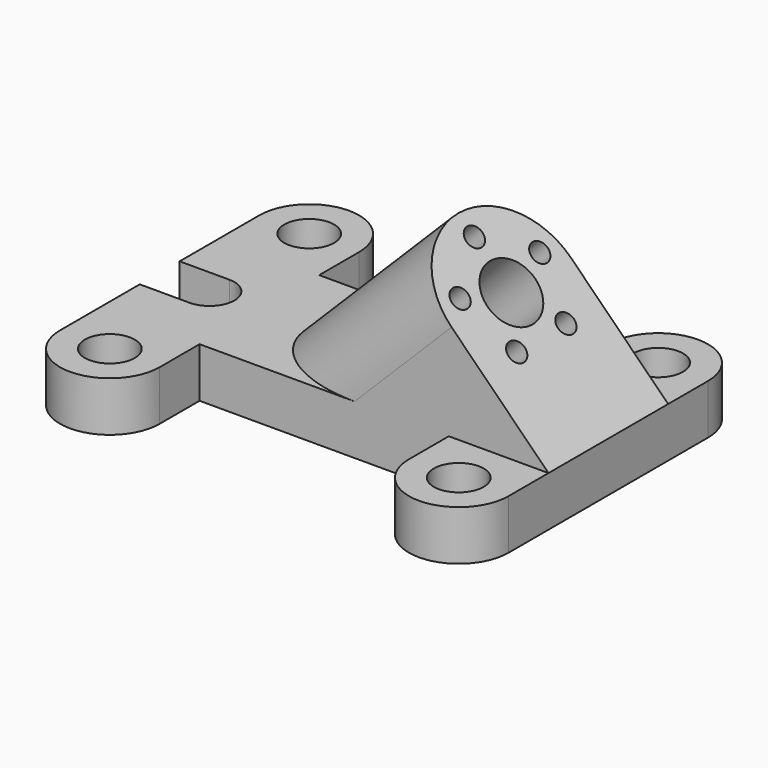
from build123d import *

# Parameters (mm, degrees)
F0_R     = 6.35
F1_DEPTH = 12.7
F3_R     = 2.54
F3_R_2   = 7.62


with BuildPart() as f1:
    # F0 (on Top) → F1 (new body)
    with BuildSketch(Plane.XY):
        with BuildLine():
            ThreePointArc((0, 6.35), (6.35, 0), (0, -6.35))
            Line((0, -6.35), (-12.7, -6.35))
            Line((-12.7, -6.35), (-12.7, -31.75))
            ThreePointArc((-12.7, -31.75), (0, -44.45), (12.7, -31.75))
            Line((12.7, -31.75), (12.7, -19.05))
            Line((12.7, -19.05), (76.2, -19.05))
            Line((76.2, -19.05), (101.6, -19.05))
            Line((101.6, -19.05), (101.6, 19.05))
            Line((101.6, 19.05), (76.2, 19.05))
            Line((76.2, 19.05), (12.7, 19.05))
            Line((12.7, 19.05), (12.7, 31.75))
            ThreePointArc((12.7, 31.75), (0, 44.45), (-12.7, 31.75))
            Line((-12.7, 31.75), (-12.7, 6.35))
            Line((-12.7, 6.35), (0, 6.35))
        make_face()
        with Locations((0, -31.75)):
            Circle(F0_R, mode=Mode.SUBTRACT)
        with Locations((0, 31.75)):
            Circle(F0_R, mode=Mode.SUBTRACT)
        with BuildLine():
            Line((101.6, -19.05), (76.2, -19.05))
            Line((76.2, -19.05), (76.2, -31.75))
            ThreePointArc((76.2, -31.75), (88.9, -44.45), (101.6, -31.75))
            Line((101.6, -31.75), (101.6, -19.05))
        make_face()
        with Locations((88.9, -31.75)):
            Circle(F0_R, mode=Mode.SUBTRACT)
        with BuildLine():
            Line((76.2, 31.75), (76.2, 19.05))
            Line((76.2, 19.05), (101.6, 19.05))
            Line((101.6, 19.05), (101.6, 31.75))
            ThreePointArc((101.6, 31.75), (88.9, 44.45), (76.2, 31.75))
        make_face()
        with Locations((88.9, 31.75)):
            Circle(F0_R, mode=Mode.SUBTRACT)
    extrude(amount=F1_DEPTH)

    # F3 (on face) → F4 (join, up to the next surface of F1)
    with BuildSketch(Plane(origin=(57.15, 0, 57.15), x_dir=(0, 1, 0), z_dir=(0.7071067812, 0, 0.7071067812))):
        with BuildLine():
            Line((-19.05, -27.9367928475), (-19.05, -62.8617928475))
            Line((-19.05, -62.8617928475), (19.05, -62.8617928475))
            Line((19.05, -62.8617928475), (19.05, -27.9367928475))
            ThreePointArc((19.05, -27.9367928475), (0, -8.8867928475), (-19.05, -27.9367928475))
        make_face()
        with Locations((-7.8381163393, -38.7250344675)):
            Circle(F3_R, mode=Mode.SUBTRACT)
        with Locations((7.8381163393, -38.7250344675)):
            Circle(F3_R, mode=Mode.SUBTRACT)
        with Locations((-12.6823386448, -23.8160512275)):
            Circle(F3_R, mode=Mode.SUBTRACT)
        with Locations((0, -27.9367928475)):
            Circle(F3_R_2, mode=Mode.SUBTRACT)
        with Locations((0, -14.6017928475)):
            Circle(F3_R, mode=Mode.SUBTRACT)
        with Locations((12.6823386448, -23.8160512275)):
            Circle(F3_R, mode=Mode.SUBTRACT)
    extrude(until=Until.NEXT, dir=(-0.7071067812, 0, -0.7071067812))


solid = f1.part
